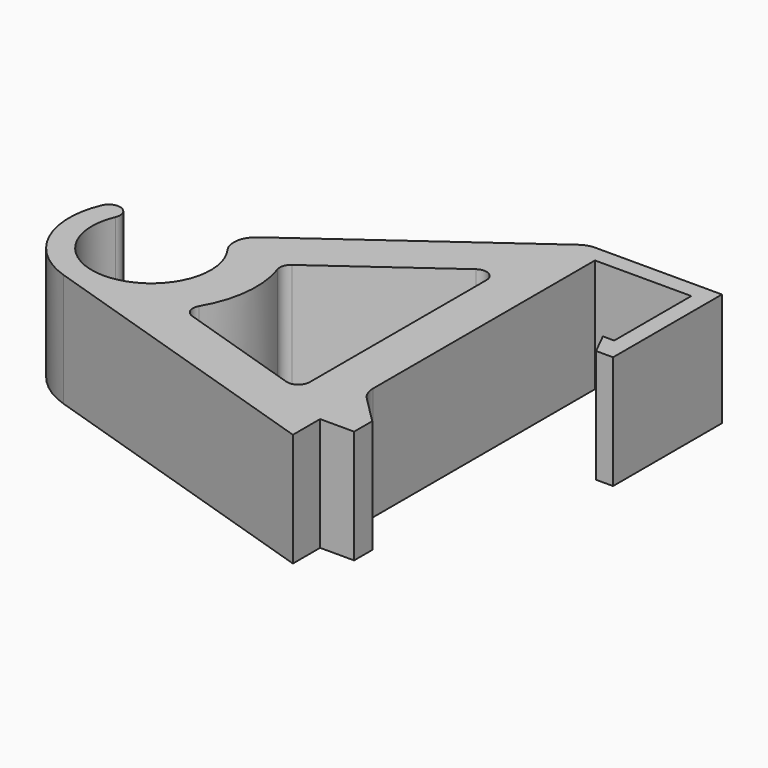
from build123d import *

# Parameters (mm, degrees)
F1_DEPTH = 25.4


with BuildPart() as f1:
    # F0 (on Top) → F1 (new body)
    with BuildSketch(Plane.XY):
        with BuildLine():
            Line((0, 10.867205), (0, 73.025))
            Line((0, 73.025), (21.59, 73.025))
            Line((21.59, 73.025), (21.59, 51.435))
            Line((21.59, 51.435), (19.05, 51.435))
            Line((19.05, 51.435), (21.59, 46.355))
            Line((21.59, 46.355), (25.4, 46.355))
            Line((25.4, 46.355), (25.4, 76.835))
            Line((25.4, 76.835), (-2.974549, 76.835))
            ThreePointArc((-2.974549, 76.835), (-4.534456, 76.589572), (-5.943638, 75.877004))
            Line((-5.943638, 75.877004), (-51.515202, 43.051709))
            ThreePointArc((-51.515202, 43.051709), (-53.559832, 39.747649), (-52.671324, 35.965073))
            ThreePointArc((-52.671324, 35.965073), (-62.067004, 14.925134), (-75.741455, 33.471487))
            ThreePointArc((-75.741455, 33.471487), (-77.065813, 36.81054), (-80.404866, 35.486182))
            ThreePointArc((-80.404866, 35.486182), (-80.268512, 20.571789), (-69.132008, 10.650296))
            Line((-69.132008, 10.650296), (0, -11.557))
            Line((0, -11.557), (0, -3.937))
            Line((0, -3.937), (7.62, -3.937))
            Line((7.62, -3.937), (7.62, 1.143))
            Line((7.62, 1.143), (1.487898, 7.275102))
            ThreePointArc((1.487898, 7.275102), (0.386692, 8.923173), (0, 10.867205))
        make_face()
        with BuildLine():
            ThreePointArc((-14.184544, 57.419772), (-11.542231, 57.61956), (-10.16, 55.358771))
            Line((-10.16, 55.358771), (-10.16, 5.86179))
            ThreePointArc((-10.16, 5.86179), (-11.203595, 3.809384), (-13.476829, 3.443498))
            Line((-13.476829, 3.443498), (-41.841771, 12.555177))
            ThreePointArc((-41.841771, 12.555177), (-43.438593, 14.069376), (-43.253729, 16.262196))
            ThreePointArc((-43.253729, 16.262196), (-40.129208, 25.770222), (-41.245404, 35.71604))
            ThreePointArc((-41.245404, 35.71604), (-41.258358, 37.305502), (-40.324046, 38.591434))
            Line((-40.324046, 38.591434), (-14.184544, 57.419772))
        make_face(mode=Mode.SUBTRACT)
    extrude(amount=F1_DEPTH)


solid = f1.part
